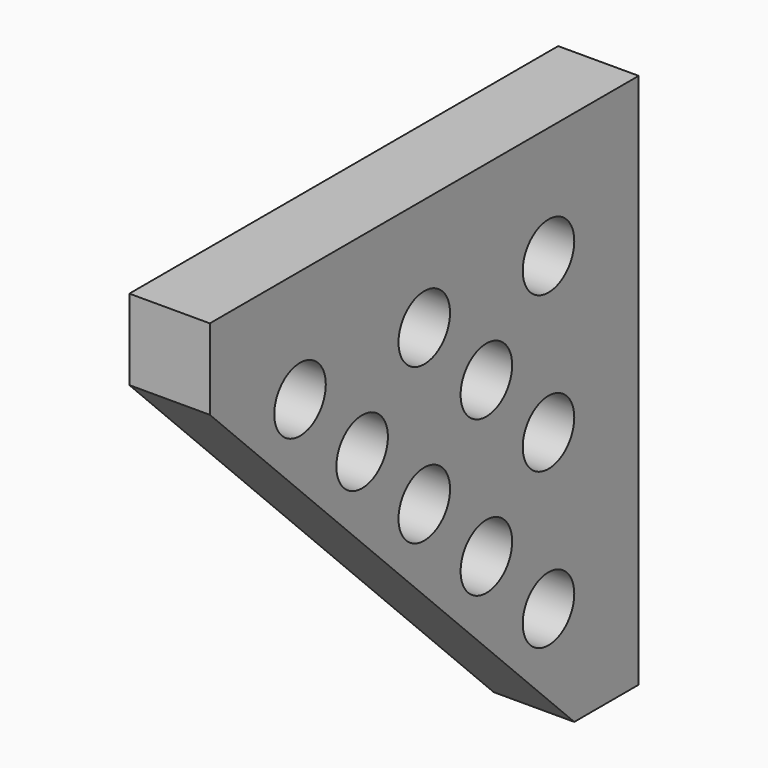
from build123d import *

# Parameters (mm, degrees)
SKETCH_R  = 4
PAD_DEPTH = 10


with BuildPart() as part:
    # Sketch → Pad (new body)
    with BuildSketch(Plane.YZ):
        Polygon((0, 0), (0, 66.568542), (-66.568542, 66.568542), (-66.568542, 56.568542), (-10, 0), align=None)
        with Locations((-14, 52.568542)):
            Circle(SKETCH_R, mode=Mode.SUBTRACT)
        with Locations((-52.568542, 52.568542)):
            Circle(SKETCH_R, mode=Mode.SUBTRACT)
        with Locations((-14, 14)):
            Circle(SKETCH_R, mode=Mode.SUBTRACT)
        with Locations((-33.285, 52.568542)):
            Circle(SKETCH_R, mode=Mode.SUBTRACT)
        with Locations((-14, 33.285)):
            Circle(SKETCH_R, mode=Mode.SUBTRACT)
        with Locations((-33.285, 33.285)):
            Circle(SKETCH_R, mode=Mode.SUBTRACT)
        with Locations((-42.9275, 42.9275)):
            Circle(SKETCH_R, mode=Mode.SUBTRACT)
        with Locations((-23.6425, 42.9275)):
            Circle(SKETCH_R, mode=Mode.SUBTRACT)
        with Locations((-23.6425, 23.6425)):
            Circle(SKETCH_R, mode=Mode.SUBTRACT)
    extrude(amount=PAD_DEPTH)


solid = part.part
